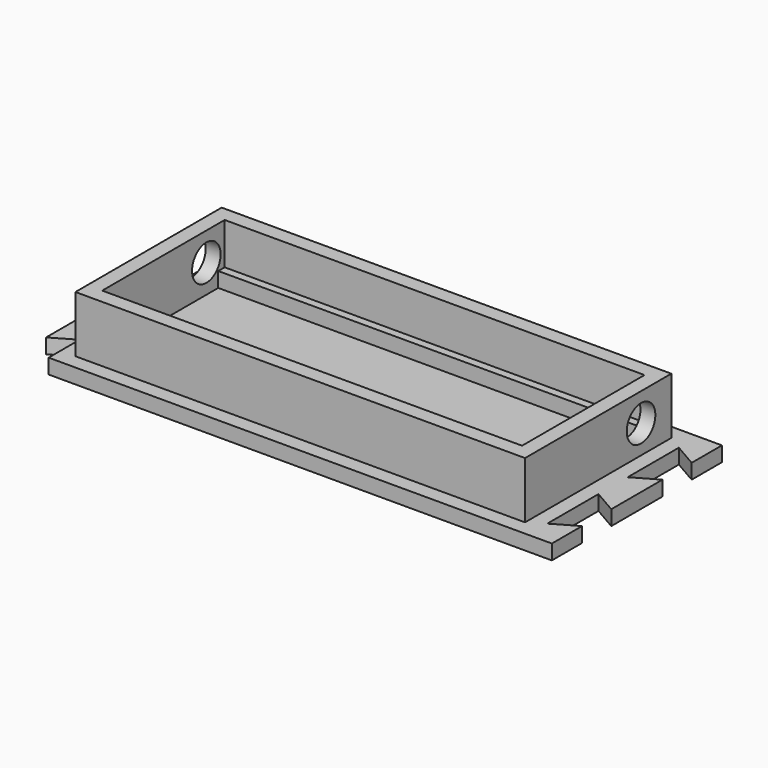
from build123d import *

# Parameters (mm, degrees)
SKETCH006_W     = 70.5
SKETCH006_H     = 25.7
PAD003_DEPTH    = 9.5
THICKNESS001_T  = 2.5
SKETCH007_R     = 3
POCKET002_DEPTH = 75.501
SKETCH046_W     = 70.5
SKETCH046_H     = 1.5
PAD039_DEPTH    = 2.5
PAD002_DEPTH    = 2.5


with BuildPart() as body002:
    # Sketch006 → Pad003 (new body)
    with BuildSketch(Plane.XY):
        with Locations((0, -48)):
            Rectangle(SKETCH006_W, SKETCH006_H)
    extrude(amount=PAD003_DEPTH)

    # Thickness001
    thickness001_openings = [body002.faces().sort_by_distance(p)[0] for p in [
        (0, -48, 9.5),
        (0, -48, 0),
    ]]
    offset(amount=THICKNESS001_T, openings=thickness001_openings, kind=Kind.INTERSECTION)

    # Sketch007 (on Face6 of Thickness001) → Pocket002 (cut, through all)
    with BuildSketch(Plane(origin=(-37.75, 0, 0), x_dir=(0, -1, 0), z_dir=(-1, 0, 0))):
        with Locations((39, 4.75)):
            Circle(SKETCH007_R)
    extrude(amount=-POCKET002_DEPTH, mode=Mode.SUBTRACT)

    # Sketch046 → Pad039 (join)
    with BuildSketch(Plane.XY):
        with Locations((0, -35.75)):
            Rectangle(SKETCH046_W, SKETCH046_H)
    extrude(amount=PAD039_DEPTH)


with BuildPart() as body002_1:
    # Body002 placement: moved
    add(body002.part.moved(Location((84.5, 36.85, 0))))


with BuildPart() as middle:
    # Sketch005 → Pad002 (new body)
    with BuildSketch(Plane(origin=(0, 0, 0), x_dir=(1, 0, 0), z_dir=(0, 0, -1))):
        Polygon((-40.25, 30.15), (40.25, 30.15), (44.25, 30.15), (44.25, 36.5), (40.251921, 34.191708), (40.251921, 44.936467), (44.25, 42.628175), (44.25, 53.372934), (40.251921, 51.064642), (40.251921, 61.809401), (44.251921, 59.5), (44.251921, 65.85), (40.251921, 65.85), (-40.248079, 65.85), (-40.248079, 59.35), (-44.098079, 61.572799), (-44.098079, 51.293867), (-40.248079, 53.516665), (-40.248079, 42.486665), (-44.1, 44.706133), (-44.1, 34.427201), (-40.25, 36.65), align=None)
    extrude(amount=PAD002_DEPTH)


with BuildPart() as middle_1:
    # Body001 placement: moved
    add(middle.part.moved(Location((84.5, 36.85, 0))))

    # Fusion003: union Body002
    add(body002_1.part)


solid = middle_1.part
